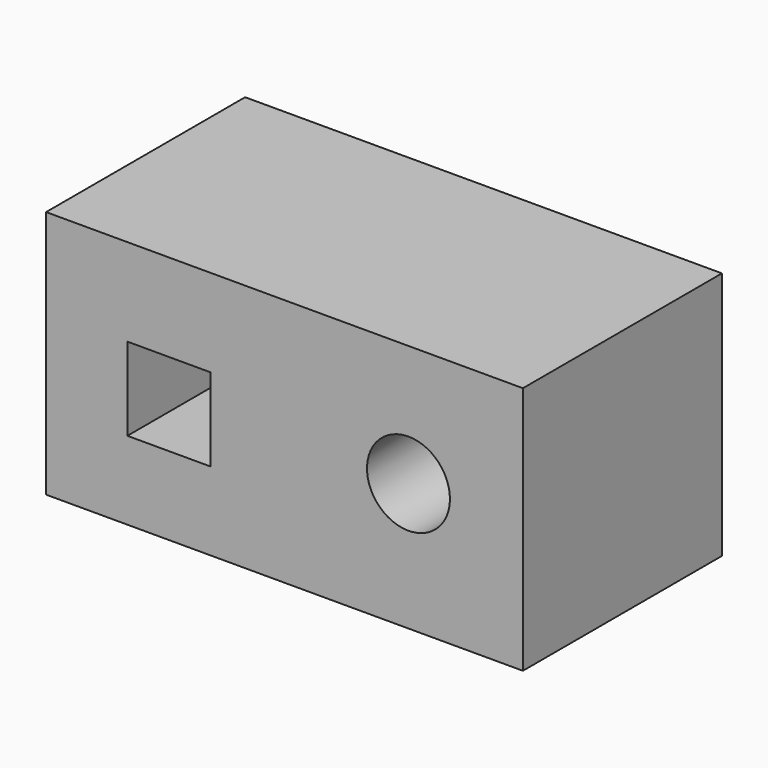
from build123d import *

# Parameters (mm, degrees)
F0_W     = 146.05
F0_H     = 76.2
F1_DEPTH = 76.2
F2_R     = 12.7
F2_W     = 25.4
F2_H     = 25.4
F3_DEPTH = 76.2


with BuildPart() as f1:
    # F0 (on Front) → F1 (new body)
    with BuildSketch(Plane.XZ):
        with Locations((-73.025, 38.1)):
            Rectangle(F0_W, F0_H)
    extrude(amount=F1_DEPTH)

    # F2 (on face) → F3 (cut)
    with BuildSketch(Plane.XZ.offset(76.2)):
        with Locations((-35.04774, 39.065331)):
            Circle(F2_R)
        with Locations((-108.444364, 36.671464)):
            Rectangle(F2_W, F2_H)
    extrude(amount=-F3_DEPTH, mode=Mode.SUBTRACT)


solid = f1.part
